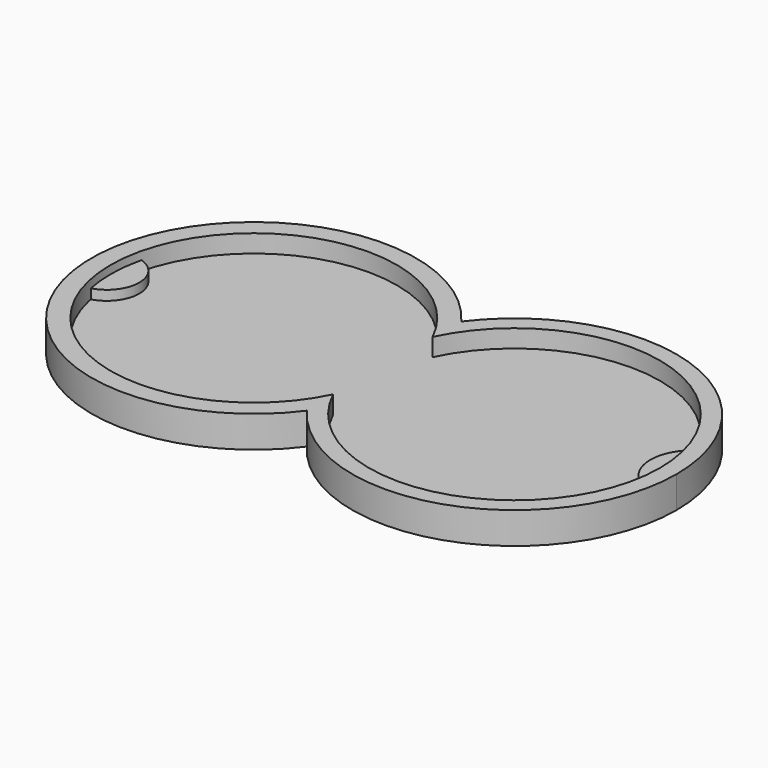
from build123d import *

# Parameters (mm, degrees)
F1_DEPTH = 9.906
F3_DEPTH = 5.588
F5_DEPTH = 3.048


with BuildPart() as f1:
    # F0 (on Top) → F1 (new body)
    with BuildSketch(Plane.XY):
        with BuildLine():
            ThreePointArc((-0.536563, -30.235408), (-10.514264, 0), (-0.536563, 30.235408))
            ThreePointArc((-0.536563, 30.235408), (-92.158862, 0), (-0.536563, -30.235408))
        make_face()
        with BuildLine():
            ThreePointArc((-0.536563, 30.235408), (6.882265, 15.919598), (9.441138, 0))
            ThreePointArc((9.441138, 0), (6.882265, -15.919598), (-0.536563, -30.235408))
            ThreePointArc((-0.536563, -30.235408), (56.205334, -48.241128), (91.085736, 0))
            ThreePointArc((91.085736, 0), (56.205334, 48.241128), (-0.536563, 30.235408))
        make_face()
        with BuildLine():
            ThreePointArc((-0.536563, -30.235408), (6.882265, -15.919598), (9.441138, 0))
            ThreePointArc((9.441138, 0), (6.882265, 15.919598), (-0.536563, 30.235408))
            ThreePointArc((-0.536563, 30.235408), (-10.514264, 0), (-0.536563, -30.235408))
        make_face()
    extrude(amount=F1_DEPTH)

    # F2 (on face) → F3 (cut)
    with BuildSketch(Plane.XY.offset(9.906)):
        with BuildLine():
            ThreePointArc((-0.922572, 19.471608), (2.396297, 9.986144), (3.52139, 0))
            ThreePointArc((3.52139, 0), (2.396297, -9.986144), (-0.922572, -19.471608))
            ThreePointArc((-0.922572, -19.471608), (50.26358, -44.471461), (85.862794, 0))
            ThreePointArc((85.862794, 0), (50.26358, 44.471461), (-0.922572, 19.471608))
        make_face()
        with BuildLine():
            ThreePointArc((-0.922572, -19.471608), (-5.291322, 0), (-0.922572, 19.471608))
            ThreePointArc((-0.922572, 19.471608), (-86.239114, 0), (-0.922572, -19.471608))
        make_face()
        with BuildLine():
            ThreePointArc((-0.922572, -19.471608), (2.396297, -9.986144), (3.52139, 0))
            ThreePointArc((3.52139, 0), (2.396297, 9.986144), (-0.922572, 19.471608))
            ThreePointArc((-0.922572, 19.471608), (-5.291322, 0), (-0.922572, -19.471608))
        make_face()
    extrude(amount=-F3_DEPTH, mode=Mode.SUBTRACT)


with BuildPart() as f5:
    # F4 (on face) → F5 (new body)
    with BuildSketch(Plane.XY.offset(4.318)):
        with BuildLine():
            ThreePointArc((-84.968977, 10.601649), (-86.230317, 0.888606), (-85.354517, -8.866761))
            ThreePointArc((-85.354517, -8.866761), (-77.957834, 0.724783), (-84.968977, 10.601649))
        make_face()
        with BuildLine():
            ThreePointArc((82.971562, 15.97462), (78.348908, 4.263356), (85.448001, -6.134986))
            ThreePointArc((85.448001, -6.134986), (85.57956, 5.073242), (82.971562, 15.97462))
        make_face()
    extrude(amount=F5_DEPTH)


solid = Compound([f1.part, f5.part])
